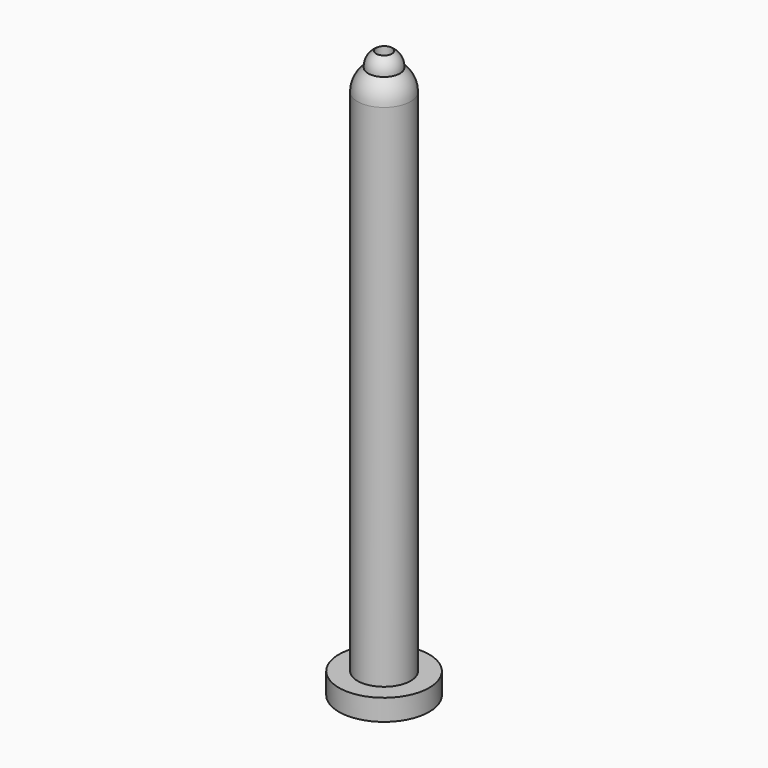
from build123d import *

# Parameters (mm, degrees)
F0_R     = 8.5
F1_DEPTH = 4
F2_R     = 5
F3_DEPTH = 100
F6_R     = 1.5
F7_DEPTH = 121.2


with BuildPart() as f1:
    # F0 (on Top) → F1 (new body)
    with BuildSketch(Plane.XY):
        Circle(F0_R)
    extrude(amount=F1_DEPTH)

    # F2 (on Top) → F3 (join)
    with BuildSketch(Plane.XY):
        Circle(F2_R)
    extrude(amount=F3_DEPTH)

    # F4 (on Right) → F5 (revolve)
    with BuildSketch(Plane.YZ):
        with BuildLine():
            Line((0, 104.0042367491), (0, 100))
            Line((0, 100), (5, 100))
            ThreePointArc((5, 100), (4.470554405, 102.2392282849), (2.9943426753, 104.0042367491))
            Line((2.9943426753, 104.0042367491), (0, 104.0042367491))
        make_face()
        with BuildLine():
            ThreePointArc((0, 105), (1.5777858306, 104.7445328403), (2.9943426753, 104.0042367491))
            ThreePointArc((2.9943426753, 104.0042367491), (2.1854582893, 106.243570465), (0, 107.1883887053))
            Line((0, 107.1883887053), (0, 105))
        make_face()
        with BuildLine():
            Line((0, 105), (0, 104.0042367491))
            Line((0, 104.0042367491), (2.9943426753, 104.0042367491))
            ThreePointArc((2.9943426753, 104.0042367491), (1.5777858306, 104.7445328403), (0, 105))
        make_face()
    revolve(axis=Axis((0, 0, 103.5941943526), (0, 0, -1)))

    # F6 (on face) → F7 (cut)
    with BuildSketch(Plane(origin=(0, 0, 0), x_dir=(1, 0, 0), z_dir=(0, 0, -1))):
        Circle(F6_R)
    extrude(amount=-F7_DEPTH, mode=Mode.SUBTRACT)


solid = f1.part
